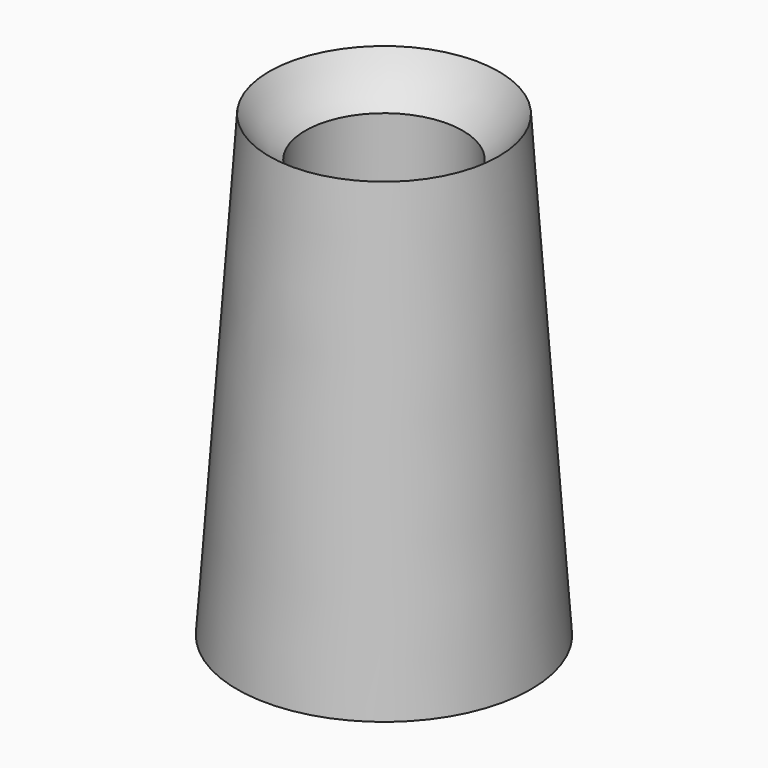
from build123d import *


with BuildPart() as f1:
    # F0 (on Front) → F1 (revolve)
    with BuildSketch(Plane.XZ):
        with BuildLine():
            Line((1.6, 5), (1.6, 0))
            Line((1.6, 0), (5.6, 0))
            Line((5.6, 0), (4.373428, 17.475))
            ThreePointArc((4.373428, 17.475), (3.765993, 16.63551), (3, 15.937673))
            Line((3, 15.937673), (3, 5))
            Line((3, 5), (1.6, 5))
        make_face()
    revolve(axis=Axis((0, 0, 10), (0, 0, 1)))


solid = f1.part
